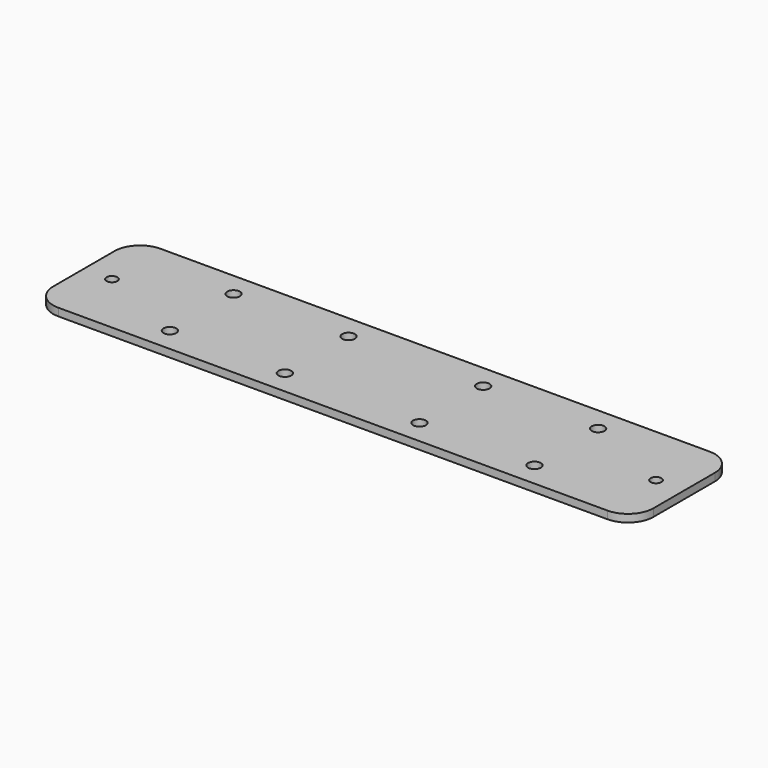
from build123d import *

# Parameters (mm, degrees)
F0_W     = 235
F0_H     = 50
F0_R     = 2.1
F1_DEPTH = 3
F2_R     = 10
F3_R     = 2.5
F4_DEPTH = 3.001


with BuildPart() as f1:
    # F0 (on Top) → F1 (new body)
    with BuildSketch(Plane.XY):
        Rectangle(F0_W, F0_H)
        with Locations((-106.5, 0)):
            Circle(F0_R, mode=Mode.SUBTRACT)
        with Locations((106.5, 0)):
            Circle(F0_R, mode=Mode.SUBTRACT)
    extrude(amount=-F1_DEPTH)

    # F2
    f2_edges = [f1.edges().sort_by_distance(p)[0] for p in [
        (117.5, 25, -1.5),
        (117.5, -25, -1.5),
        (-117.5, -25, -1.5),
        (-117.5, 25, -1.5),
    ]]
    fillet(f2_edges, radius=F2_R)

    # F3 (on face) → F4 (cut, through all)
    with BuildSketch(Plane.XY):
        with Locations((-71.357113, 15.577964)):
            Circle(F3_R)
        with Locations((-26.3474, 15.577964)):
            Circle(F3_R)
        with Locations((71.357113, 15.577964)):
            Circle(F3_R)
        with Locations((26.3474, 15.577964)):
            Circle(F3_R)
        with Locations((71.357113, -15.577964)):
            Circle(F3_R)
        with Locations((-26.3474, -15.577964)):
            Circle(F3_R)
        with Locations((-71.357113, -15.577964)):
            Circle(F3_R)
        with Locations((26.3474, -15.577964)):
            Circle(F3_R)
    extrude(amount=-F4_DEPTH, mode=Mode.SUBTRACT)


solid = f1.part
